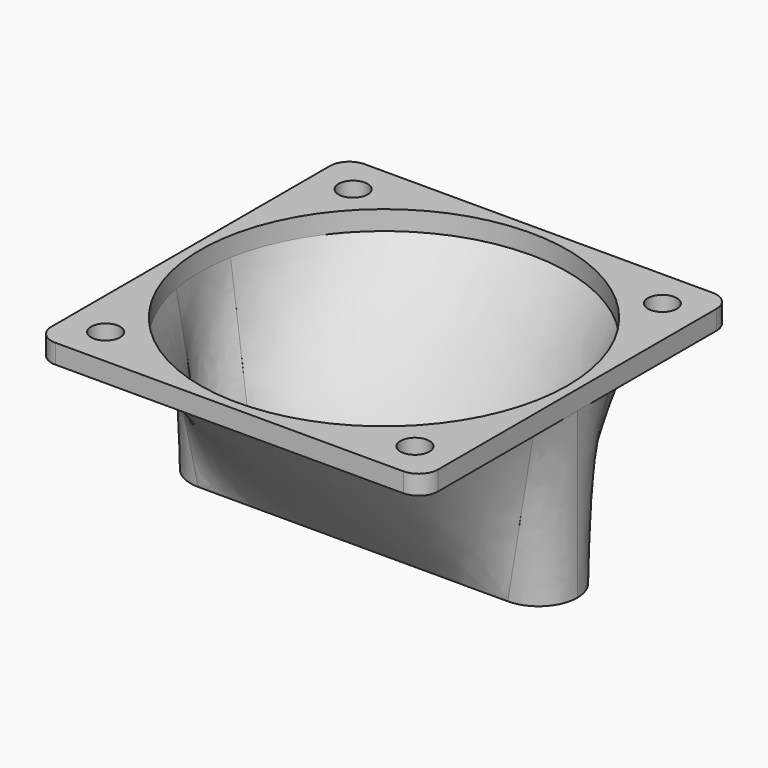
from build123d import *

# Parameters (mm, degrees)
SKETCH002_R     = 19
SKETCH003_R     = 20
PAD_DEPTH       = 2
SKETCH005_R     = 19
POCKET_DEPTH    = 2
SKETCH006_R     = 1.5
POCKET001_DEPTH = 5


with BuildPart() as loft_body:
    # Sketch → Loft section 0
    with BuildSketch(Plane.XY):
        with BuildLine():
            ThreePointArc((-16, 3), (-19, 0), (-16, -3))
            Line((-16, -3), (16, -3))
            ThreePointArc((16, -3), (19, 0), (16, 3))
            Line((-16, 3), (16, 3))
        make_face()
    # Sketch002 → Loft section 1
    with BuildSketch(Plane.XY.offset(17)):
        Circle(SKETCH002_R)
    loft()


with BuildPart() as pocket001:
    # Sketch001 → Loft001 section 0
    with BuildSketch(Plane.XY):
        with BuildLine():
            ThreePointArc((-16, 4), (-20, 0), (-16, -4))
            Line((-16, -4), (16, -4))
            ThreePointArc((16, -4), (20, 0), (16, 4))
            Line((-16, 4), (16, 4))
        make_face()
    # Sketch003 → Loft001 section 1
    with BuildSketch(Plane.XY.offset(17)):
        Circle(SKETCH003_R)
    loft()

    # Cut: cut Loft body
    add(loft_body.part, mode=Mode.SUBTRACT)

    # Sketch004 → Pad (new body)
    with BuildSketch(Plane.XY.offset(17)):
        with BuildLine():
            Line((-18, 20), (18, 20))
            ThreePointArc((20, 18), (19.414214, 19.414214), (18, 20))
            Line((20, 18), (20, -18))
            ThreePointArc((18, -20), (19.414214, -19.414214), (20, -18))
            Line((18, -20), (-18, -20))
            ThreePointArc((-20, -18), (-19.414214, -19.414214), (-18, -20))
            Line((-20, -18), (-20, 18))
            ThreePointArc((-18, 20), (-19.414214, 19.414214), (-20, 18))
        make_face()
    extrude(amount=PAD_DEPTH)

    # Sketch005 → Pocket (cut)
    with BuildSketch(Plane.XY.offset(19)):
        Circle(SKETCH005_R)
    extrude(amount=-POCKET_DEPTH, mode=Mode.SUBTRACT)

    # Sketch006 → Pocket001 (cut)
    with BuildSketch(Plane.XY.offset(19)):
        with Locations((-16, 16)):
            Circle(SKETCH006_R)
        with Locations((16, 16)):
            Circle(SKETCH006_R)
        with Locations((-16, -16)):
            Circle(SKETCH006_R)
        with Locations((16, -16)):
            Circle(SKETCH006_R)
    extrude(amount=-POCKET001_DEPTH, mode=Mode.SUBTRACT)


solid = pocket001.part
